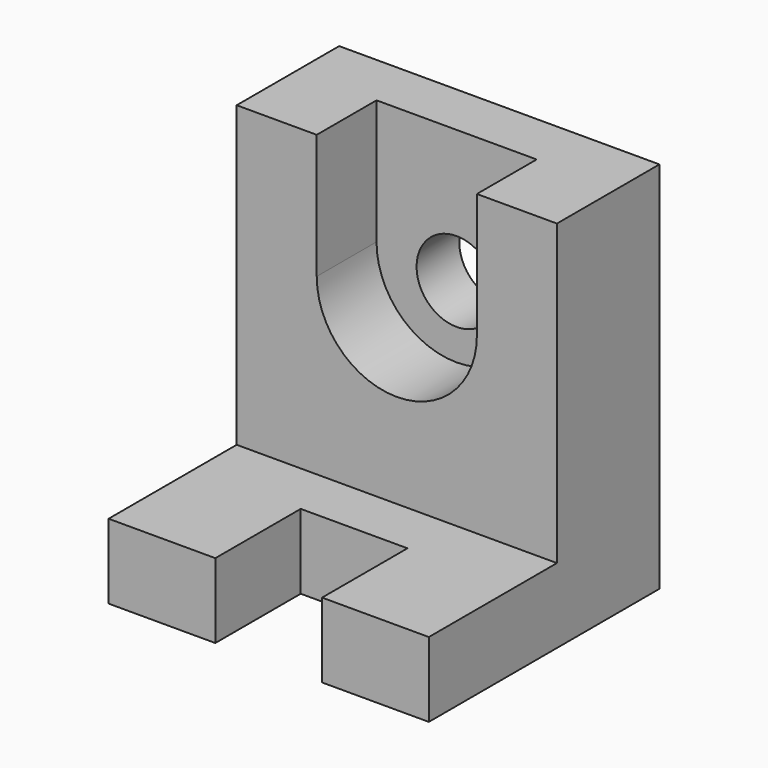
from build123d import *

# Parameters (mm, degrees)
F0_W      = 60
F0_H      = 70
F1_DEPTH  = 24
F3_DEPTH  = 14
F4_R      = 7.5
F5_DEPTH  = 24.001
F6_W      = 60
F6_H      = 14
F7_DEPTH  = 30
F10_DEPTH = 20
F11_DEPTH = 0.1359600746


with BuildPart() as f1:
    # F0 (on Front) → F1 (new body)
    with BuildSketch(Plane.XZ):
        Rectangle(F0_W, F0_H)
    extrude(amount=F1_DEPTH)

    # F2 (on face) → F3 (cut)
    with BuildSketch(Plane.XZ.offset(24)):
        with BuildLine():
            Line((15, 35), (-15, 35))
            Line((-15, 35), (-15, 11.6464606471))
            ThreePointArc((-15, 11.6464606471), (0, -3.3535393529), (15, 11.6464606471))
            Line((15, 11.6464606471), (15, 35))
        make_face()
    extrude(amount=-F3_DEPTH, mode=Mode.SUBTRACT)

    # F4 (on face) → F5 (cut, through all)
    with BuildSketch(Plane(origin=(0, 0, 0), x_dir=(-1, 0, 0), z_dir=(0, 1, 0))):
        with Locations((0, 10)):
            Circle(F4_R)
    extrude(amount=-F5_DEPTH, mode=Mode.SUBTRACT)

    # F6 (on face) → F7 (join)
    with BuildSketch(Plane.XZ.offset(24)):
        with Locations((0, -28)):
            Rectangle(F6_W, F6_H)
    extrude(amount=F7_DEPTH)

    # F9 (on face) → F10 (cut)
    with BuildSketch(Plane.XZ.offset(54)):
        Polygon((10, -21), (-9.999969219, -21), (-9.999969219, -34.9001288414), (10, -34.9352178571), align=None)
    extrude(amount=-F10_DEPTH, mode=Mode.SUBTRACT)

    # F11 (cut, through all): a face of the model
    f11_faces = [f1.faces().sort_by_distance(p)[0] for p in [
        (1.53905e-05, -44, -34.9176733492),
    ]]
    extrude(f11_faces, amount=-F11_DEPTH, mode=Mode.SUBTRACT)


solid = f1.part
